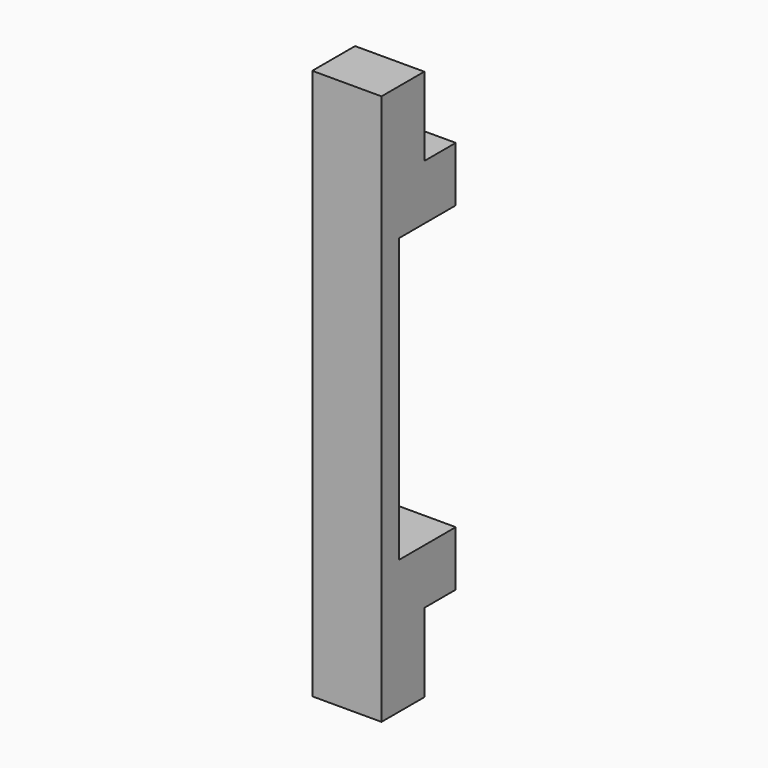
from build123d import *

# Parameters (mm, degrees)
F0_W     = 44
F0_H     = 69
F1_DEPTH = 350
F2_W     = 25
F2_H     = 50
F3_DEPTH = 44.001
F4_W     = 10
F4_H     = 350
F5_DEPTH = 100


with BuildPart() as f1:
    # F0 (on Top) → F1 (new body)
    with BuildSketch(Plane.XY):
        Rectangle(F0_W, F0_H)
    extrude(amount=F1_DEPTH)

    # F2 (on face) → F3 (cut, through all)
    with BuildSketch(Plane.YZ.offset(22)):
        Polygon((-10.5, 85), (34.5, 85), (34.5, 175), (34.5, 265), (-10.5, 265), (-10.5, 175), align=None)
        with Locations((22, 25)):
            Rectangle(F2_W, F2_H)
        with Locations((22, 325)):
            Rectangle(F2_W, F2_H)
    extrude(amount=-F3_DEPTH, mode=Mode.SUBTRACT)

    # F4 (on face) → F5 (cut)
    with BuildSketch(Plane.YZ.offset(22)):
        with Locations((-29.5, 175)):
            Rectangle(F4_W, F4_H)
    extrude(amount=-F5_DEPTH, mode=Mode.SUBTRACT)


solid = f1.part
